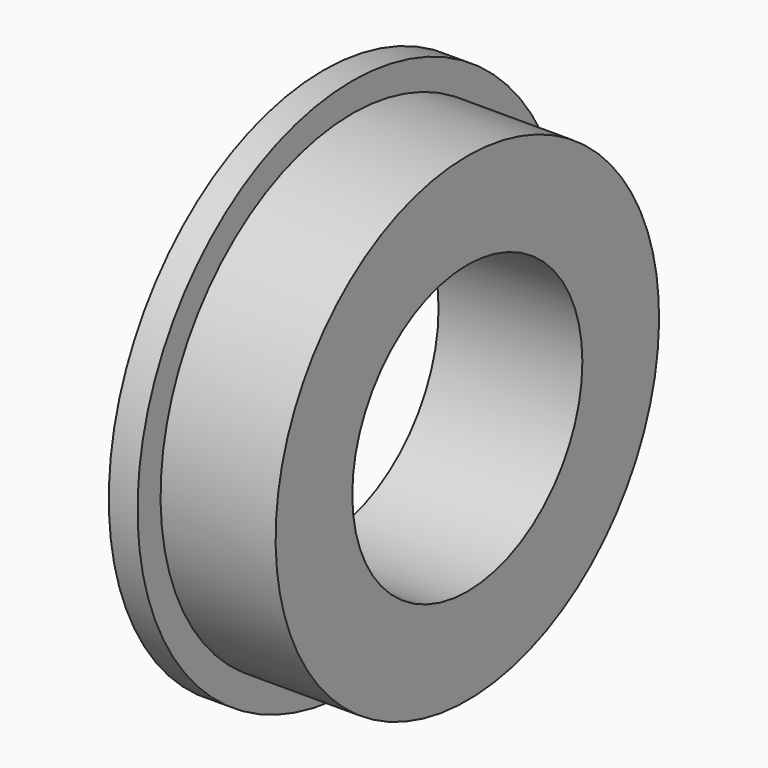
from build123d import *

# Parameters (mm, degrees)
F0_W = 3
F0_H = 2
F2_W = 0.6
F2_H = 0.909567


with BuildPart() as f1:
    # F0 (on Front) → F1 (revolve)
    with BuildSketch(Plane.XZ):
        with Locations((1.5, 4)):
            Rectangle(F0_W, F0_H)
    revolve(axis=Axis((0.255134, 0, 0), (1, 0, 0)))

    # F2 (on Front) → F3 (revolve)
    with BuildSketch(Plane.XZ):
        with Locations((0.3, 5.145217)):
            Rectangle(F2_W, F2_H)
    revolve(axis=Axis((-0.146148, 0, 0), (1, 0, 0)))


solid = f1.part
